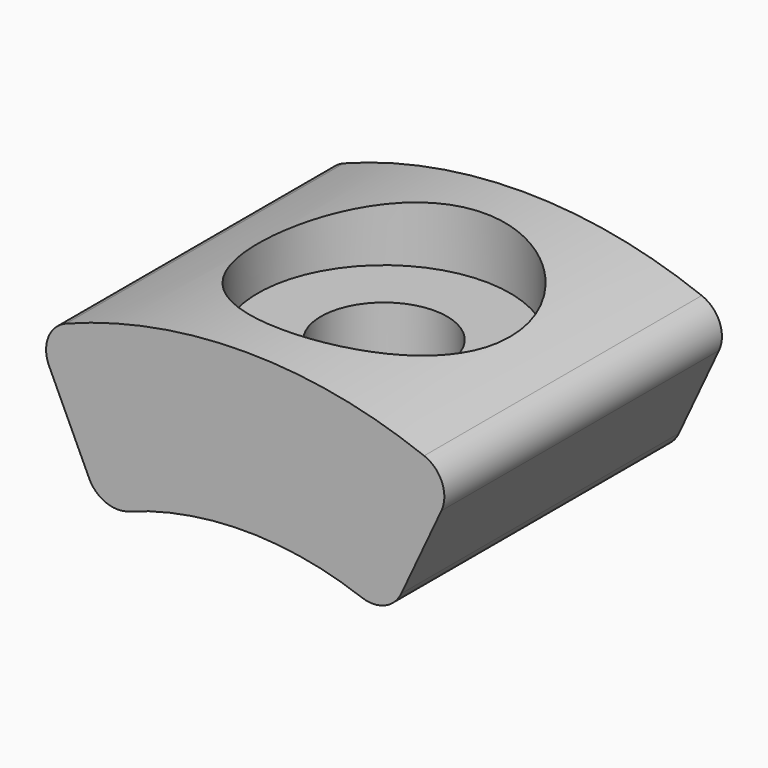
from build123d import *

# Parameters (mm, degrees)
F1_DEPTH = 6.985
F4_R     = 5.08
F5_DEPTH = 2.413
F6_R     = 2.54
F7_DEPTH = 5.2171329375
F8_R     = 1.27


with BuildPart() as f1:
    # F0 (on Front) → F1 (new body, symmetric)
    with BuildSketch(Plane.XZ):
        with BuildLine():
            ThreePointArc((-5.7697958184, 12.3733670625), (0, 13.6525), (5.7697958184, 12.3733670625))
            Line((5.7697958184, 12.3733670625), (8.4534217805, 18.1284215102))
            ThreePointArc((8.4534217805, 18.1284215102), (0, 20.0025), (-8.4534217805, 18.1284215102))
            Line((-8.4534217805, 18.1284215102), (-5.7697958184, 12.3733670625))
        make_face()
    extrude(amount=F1_DEPTH, both=True)

    # F4 (on plane+point) → F5 (cut)
    with BuildSketch(Plane.XY.offset(20.0025)):
        Circle(F4_R)
    extrude(amount=-F5_DEPTH, mode=Mode.SUBTRACT)

    # F6 (on face) → F7 (cut, through all)
    with BuildSketch(Plane.XY.offset(17.5895)):
        Circle(F6_R)
    extrude(amount=-F7_DEPTH, mode=Mode.SUBTRACT)

    # F8
    f8_edges = [f1.edges().sort_by_distance(p)[0] for p in [
        (8.453422, 0, 18.128422),
        (-8.453422, 0, 18.128422),
        (5.769796, 0, 12.373367),
        (-5.769796, 0, 12.373367),
    ]]
    fillet(f8_edges, radius=F8_R)


solid = f1.part
